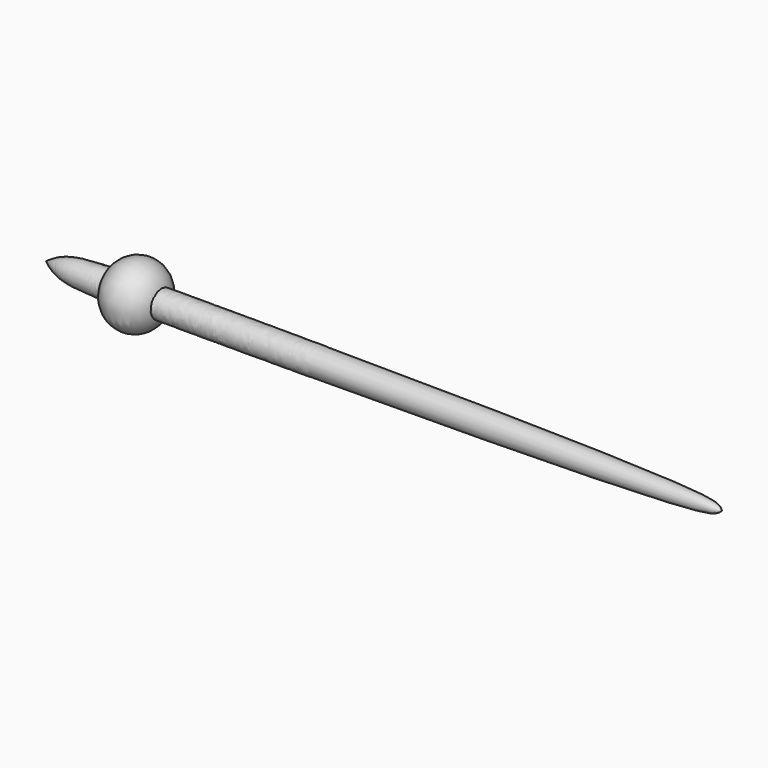
from build123d import *


with BuildPart() as f1:
    # F0 (on Top) → F1 (revolve)
    with BuildSketch(Plane.XY):
        with BuildLine():
            add(Edge.make_bspline(
                [(0, 0), (3.8133500192, 2.9327336521), (18.3528009334, 3.074606396), (144.2599551824, 3.0404759995), (149.2747172278, 0.8050168153), (150, 0)],
                knots=[0, 0, 0, 0, 0.2503582279, 0.8728042301, 1, 1, 1, 1], degree=3))
            Line((0, 0), (150, 0))
        make_face()
    revolve(axis=Axis((75, 0, 0), (1, 0, 0)))


with BuildPart() as f3:
    # F2 (on Top) → F3 (revolve)
    with BuildSketch(Plane.XY):
        with BuildLine():
            Line((14, 1), (14, 0))
            Line((14, 0), (26, 0))
            Line((26, 0), (26, 1))
            ThreePointArc((26, 1), (20, 7), (14, 1))
        make_face()
    revolve(axis=Axis((20, 0, 0), (1, 0, 0)))


solid = Compound([f1.part, f3.part])
